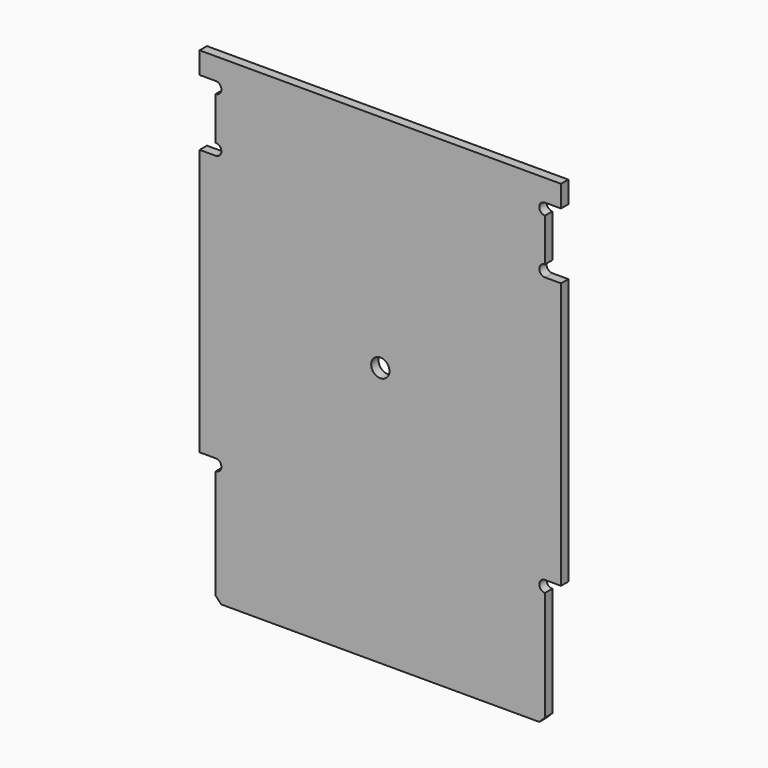
from build123d import *

# Parameters (mm, degrees)
PAD009_DEPTH    = 1.6
SKETCH029_R     = 1.6
POCKET014_DEPTH = 1.601


with BuildPart() as part:
    # Sketch028 → Pad009 (new body)
    with BuildSketch(Plane.XZ):
        with BuildLine():
            Line((0, 1.48), (27.75, 1.48))
            Line((27.75, 1.48), (28.75, 2.48))
            Line((28.75, 2.48), (28.75, 21.63))
            ThreePointArc((28.75, 23.63), (27.75, 22.63), (28.75, 21.63))
            Line((28.75, 23.63), (31.55, 23.63))
            Line((31.55, 23.63), (31.55, 70.13))
            Line((31.55, 70.13), (28.75, 70.13))
            ThreePointArc((28.75, 72.13), (27.75, 71.13), (28.75, 70.13))
            Line((28.75, 72.13), (28.75, 79.63))
            ThreePointArc((28.75, 81.63), (27.75, 80.63), (28.75, 79.63))
            Line((28.75, 81.63), (31.55, 81.63))
            Line((31.55, 81.63), (31.55, 85.43))
            Line((31.55, 85.43), (0, 85.43))
            Line((0, 85.43), (0, 1.48))
        make_face()
    pad009 = extrude(amount=PAD009_DEPTH)

    # Mirrored002: Pad009 across Sketch028 V_Axis
    add(pad009.mirror(Plane(origin=(0, 0, 0), x_dir=(0, -1, 0), z_dir=(1, 0, 0))))

    # Sketch029 → Pocket014 (cut, through all)
    with BuildSketch(Plane.XZ):
        with Locations((0, 46.88)):
            Circle(SKETCH029_R)
    extrude(amount=POCKET014_DEPTH, mode=Mode.SUBTRACT)


solid = part.part
